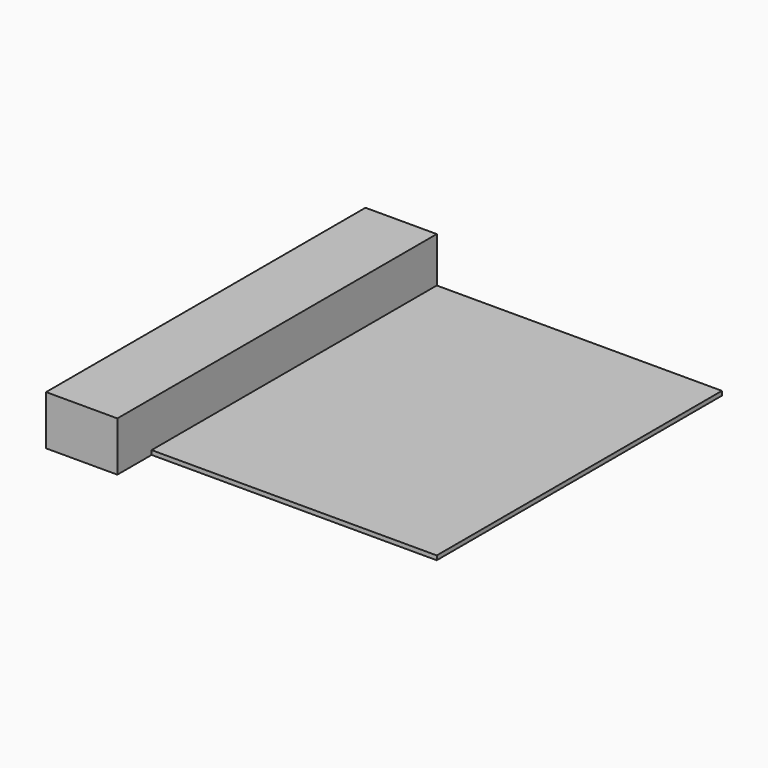
from build123d import *

# Parameters (mm, degrees)
F0_W     = 100
F0_H     = 100
F1_DEPTH = 1.2
F2_W     = 20
F2_H     = 100
F3_DEPTH = 12.7
F5_DEPTH = 12


with BuildPart() as f1:
    # F0 (on Top) → F1 (new body)
    with BuildSketch(Plane.XY):
        Rectangle(F0_W, F0_H)
    extrude(amount=F1_DEPTH)

    # F2 (on face) → F3 (join)
    with BuildSketch(Plane.XY.offset(1.2)):
        with Locations((-40, 0)):
            Rectangle(F2_W, F2_H)
    extrude(amount=F3_DEPTH)

    # F4 (on face) → F5 (join)
    with BuildSketch(Plane.XZ.offset(50)):
        Polygon((-30, 13.9), (-50, 13.9), (-50, 0), (-30, 0), (-30, 1.2), align=None)
    extrude(amount=F5_DEPTH)


solid = f1.part
